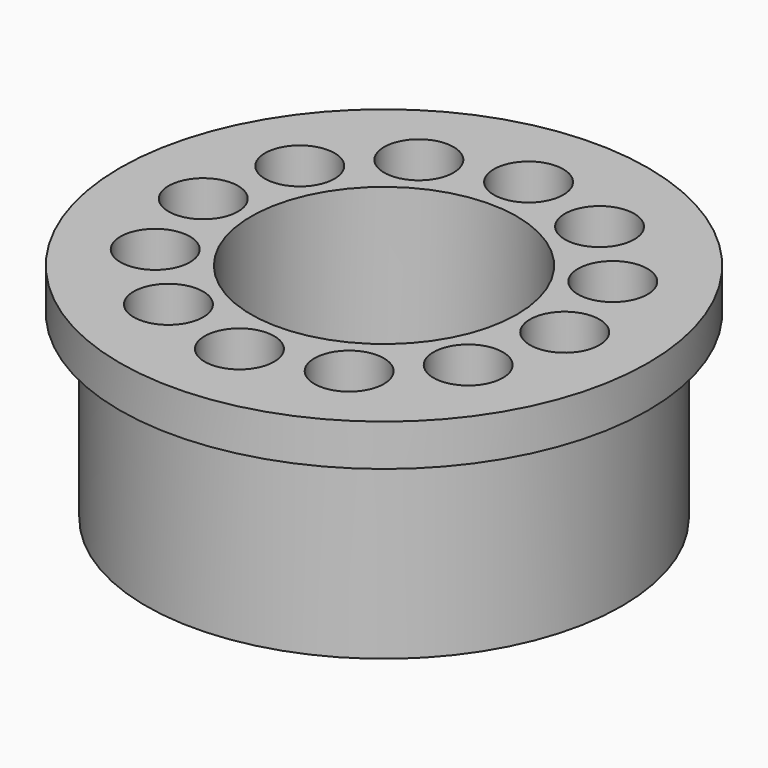
from build123d import *

# Parameters (mm, degrees)
F2_R     = 3.96875
F3_DEPTH = 25.401


with BuildPart() as f1:
    # F0 (on Front) → F1 (revolve)
    with BuildSketch(Plane.XZ):
        Polygon((15.1765, 25.4), (15.1765, 0), (27.178, 0), (27.178, 20.6375), (30.1625, 20.6375), (30.1625, 25.4), align=None)
    revolve(axis=Axis((0, 0, 2.135532), (0, 0, 1)))

    # F2 (on face) → F3 (cut, through all)
    with BuildSketch(Plane.XY.offset(25.4)):
        with Locations((0, -20.6375)):
            Circle(F2_R)
        with Locations((10.31875, 17.872599)):
            Circle(F2_R)
        with Locations((17.872599, 10.31875)):
            Circle(F2_R)
        with Locations((20.6375, 0)):
            Circle(F2_R)
        with Locations((17.872599, -10.31875)):
            Circle(F2_R)
        with Locations((10.31875, -17.872599)):
            Circle(F2_R)
        with Locations((-10.31875, -17.872599)):
            Circle(F2_R)
        with Locations((-17.872599, -10.31875)):
            Circle(F2_R)
        with Locations((-20.6375, 0)):
            Circle(F2_R)
        with Locations((-17.872599, 10.31875)):
            Circle(F2_R)
        with Locations((-10.31875, 17.872599)):
            Circle(F2_R)
        with Locations((0, 20.6375)):
            Circle(F2_R)
    extrude(amount=-F3_DEPTH, mode=Mode.SUBTRACT)


solid = f1.part
